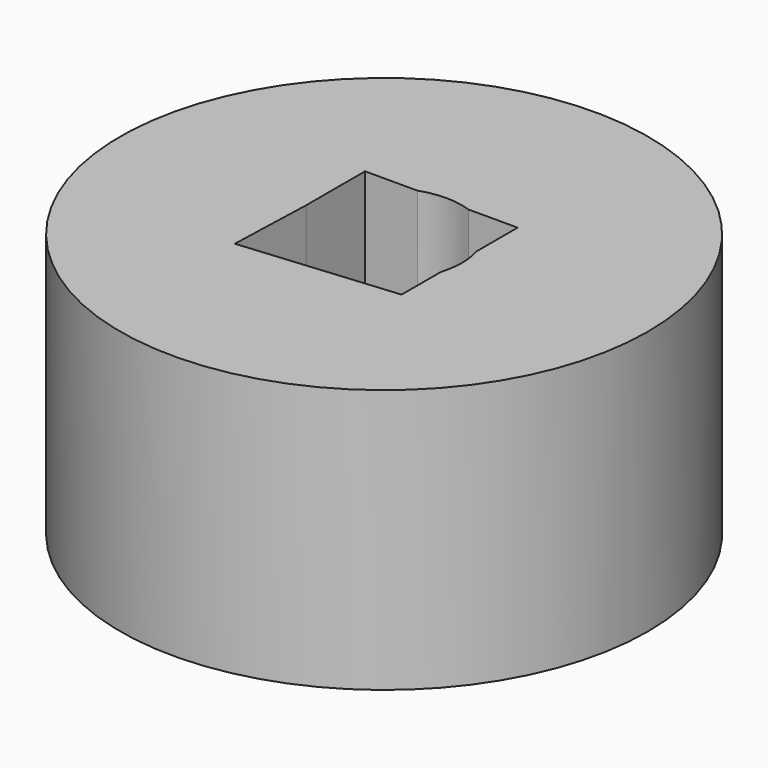
from build123d import *

# Parameters (mm, degrees)
F0_R     = 25.4
F1_DEPTH = 25.4


with BuildPart() as f1:
    # F0 (on Top) → F1 (new body)
    with BuildSketch(Plane.XY):
        Circle(F0_R)
        with BuildLine():
            ThreePointArc((7.181681, 2.161811), (7.419992, 1.09256), (7.499998, 0))
            ThreePointArc((7.499998, 0), (7.419992, -1.09256), (7.181681, -2.161811))
            Line((7.181681, -2.161811), (7.181681, -6.87823))
            Line((7.181681, -6.87823), (0.678808, -7.469216))
            Line((0.678808, -7.469216), (-7.775361, -8.237537))
            Line((-7.775361, -8.237537), (-7.499998, 0))
            Line((-7.499998, 0), (-7.499998, 7.080531))
            Line((-7.499998, 7.080531), (-2.473064, 7.080531))
            ThreePointArc((-2.473064, 7.080531), (0, 7.499998), (2.473064, 7.080531))
            Line((2.473064, 7.080531), (7.181681, 7.080531))
            Line((7.181681, 7.080531), (7.181681, 2.161811))
        make_face(mode=Mode.SUBTRACT)
    extrude(amount=F1_DEPTH)


solid = f1.part
